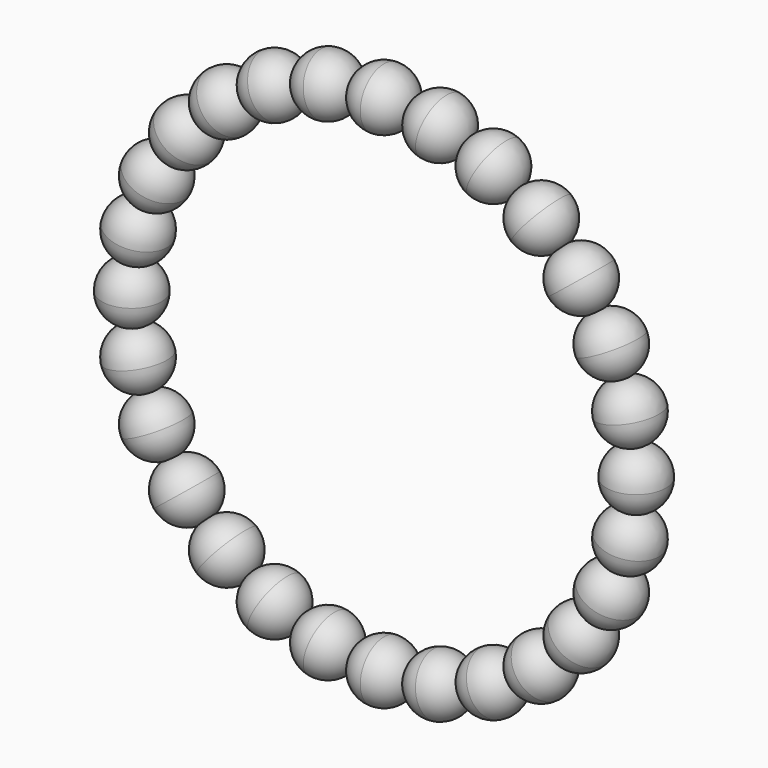
from build123d import *

# Parameters (mm, degrees)
F2_COUNT = 28


with BuildPart() as f1:
    # F0 (on Front) → F1 (revolve)
    with BuildSketch(Plane.XZ):
        with BuildLine():
            ThreePointArc((11.5455035111, 0), (11.1898028219, 0.8587374279), (10.331065394, 1.2144381171))
            Line((10.331065394, 1.2144381171), (10.331065394, -1.2144381171))
            ThreePointArc((10.331065394, -1.2144381171), (11.1898028219, -0.8587374279), (11.5455035111, 0))
        make_face()
    revolve(axis=Axis((10.331065394, 0, 0.0900687883), (0, 0, -1)))


with BuildPart() as f2_1:
    # F2: instance of F1
    add(f1.part.rotate(Axis((0, 0, 0), (0, -1, 0)), 1 * 360 / F2_COUNT))


with BuildPart() as f2_2:
    # F2: instance of F1
    add(f1.part.rotate(Axis((0, 0, 0), (0, -1, 0)), 2 * 360 / F2_COUNT))


with BuildPart() as f2_3:
    # F2: instance of F1
    add(f1.part.rotate(Axis((0, 0, 0), (0, -1, 0)), 3 * 360 / F2_COUNT))


with BuildPart() as f2_4:
    # F2: instance of F1
    add(f1.part.rotate(Axis((0, 0, 0), (0, -1, 0)), 4 * 360 / F2_COUNT))


with BuildPart() as f2_5:
    # F2: instance of F1
    add(f1.part.rotate(Axis((0, 0, 0), (0, -1, 0)), 5 * 360 / F2_COUNT))


with BuildPart() as f2_6:
    # F2: instance of F1
    add(f1.part.rotate(Axis((0, 0, 0), (0, -1, 0)), 6 * 360 / F2_COUNT))


with BuildPart() as f2_7:
    # F2: instance of F1
    add(f1.part.rotate(Axis((0, 0, 0), (0, -1, 0)), 7 * 360 / F2_COUNT))


with BuildPart() as f2_8:
    # F2: instance of F1
    add(f1.part.rotate(Axis((0, 0, 0), (0, -1, 0)), 8 * 360 / F2_COUNT))


with BuildPart() as f2_9:
    # F2: instance of F1
    add(f1.part.rotate(Axis((0, 0, 0), (0, -1, 0)), 9 * 360 / F2_COUNT))


with BuildPart() as f2_10:
    # F2: instance of F1
    add(f1.part.rotate(Axis((0, 0, 0), (0, -1, 0)), 10 * 360 / F2_COUNT))


with BuildPart() as f2_11:
    # F2: instance of F1
    add(f1.part.rotate(Axis((0, 0, 0), (0, -1, 0)), 11 * 360 / F2_COUNT))


with BuildPart() as f2_12:
    # F2: instance of F1
    add(f1.part.rotate(Axis((0, 0, 0), (0, -1, 0)), 12 * 360 / F2_COUNT))


with BuildPart() as f2_13:
    # F2: instance of F1
    add(f1.part.rotate(Axis((0, 0, 0), (0, -1, 0)), 13 * 360 / F2_COUNT))


with BuildPart() as f2_14:
    # F2: instance of F1
    add(f1.part.rotate(Axis((0, 0, 0), (0, -1, 0)), 14 * 360 / F2_COUNT))


with BuildPart() as f2_15:
    # F2: instance of F1
    add(f1.part.rotate(Axis((0, 0, 0), (0, -1, 0)), 15 * 360 / F2_COUNT))


with BuildPart() as f2_16:
    # F2: instance of F1
    add(f1.part.rotate(Axis((0, 0, 0), (0, -1, 0)), 16 * 360 / F2_COUNT))


with BuildPart() as f2_17:
    # F2: instance of F1
    add(f1.part.rotate(Axis((0, 0, 0), (0, -1, 0)), 17 * 360 / F2_COUNT))


with BuildPart() as f2_18:
    # F2: instance of F1
    add(f1.part.rotate(Axis((0, 0, 0), (0, -1, 0)), 18 * 360 / F2_COUNT))


with BuildPart() as f2_19:
    # F2: instance of F1
    add(f1.part.rotate(Axis((0, 0, 0), (0, -1, 0)), 19 * 360 / F2_COUNT))


with BuildPart() as f2_20:
    # F2: instance of F1
    add(f1.part.rotate(Axis((0, 0, 0), (0, -1, 0)), 20 * 360 / F2_COUNT))


with BuildPart() as f2_21:
    # F2: instance of F1
    add(f1.part.rotate(Axis((0, 0, 0), (0, -1, 0)), 21 * 360 / F2_COUNT))


with BuildPart() as f2_22:
    # F2: instance of F1
    add(f1.part.rotate(Axis((0, 0, 0), (0, -1, 0)), 22 * 360 / F2_COUNT))


with BuildPart() as f2_23:
    # F2: instance of F1
    add(f1.part.rotate(Axis((0, 0, 0), (0, -1, 0)), 23 * 360 / F2_COUNT))


with BuildPart() as f2_24:
    # F2: instance of F1
    add(f1.part.rotate(Axis((0, 0, 0), (0, -1, 0)), 24 * 360 / F2_COUNT))


with BuildPart() as f2_25:
    # F2: instance of F1
    add(f1.part.rotate(Axis((0, 0, 0), (0, -1, 0)), 25 * 360 / F2_COUNT))


with BuildPart() as f2_26:
    # F2: instance of F1
    add(f1.part.rotate(Axis((0, 0, 0), (0, -1, 0)), 26 * 360 / F2_COUNT))


with BuildPart() as f2_27:
    # F2: instance of F1
    add(f1.part.rotate(Axis((0, 0, 0), (0, -1, 0)), 27 * 360 / F2_COUNT))


solid = Compound([f1.part, f2_1.part, f2_2.part, f2_3.part, f2_4.part, f2_5.part, f2_6.part, f2_7.part, f2_8.part, f2_9.part, f2_10.part, f2_11.part, f2_12.part, f2_13.part, f2_14.part, f2_15.part, f2_16.part, f2_17.part, f2_18.part, f2_19.part, f2_20.part, f2_21.part, f2_22.part, f2_23.part, f2_24.part, f2_25.part, f2_26.part, f2_27.part])
